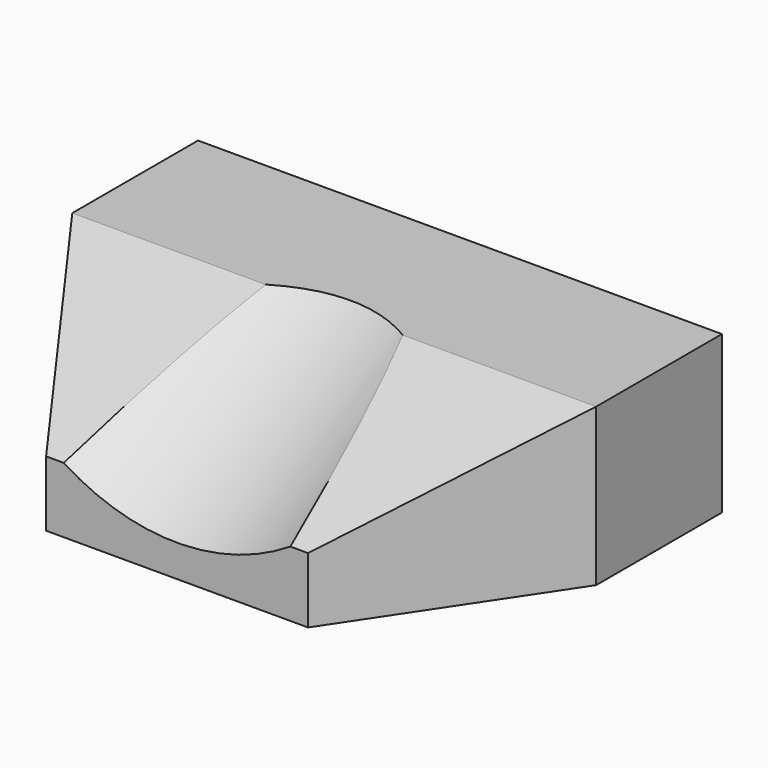
from build123d import *

# Parameters (mm, degrees)
CYLINDER_R               = 18
CYLINDER_DEPTH           = 30
CYLINDER_PLACEMENT_ANGLE = 120
PAD_DEPTH                = 12
POCKET_DEPTH             = 40.001
SKETCH002_W              = 2.5
SKETCH002_H              = 7.3
POCKET001_DEPTH          = 9


with BuildPart() as cilindro:
    # Cylinder → Cylinder (new body)
    with BuildSketch(Plane.XY):
        Circle(CYLINDER_R)
    extrude(amount=CYLINDER_DEPTH)


with BuildPart() as cilindro_1:
    # Cylinder placement: moved
    add(cilindro.part.moved(Location((0, -5, 29))).rotate(Axis((0, -5, 29), (1, 0, 0)), CYLINDER_PLACEMENT_ANGLE))


with BuildPart() as cut:
    # Sketch → Pad (new body)
    with BuildSketch(Plane.XY):
        Polygon((-20, 12), (20, 12), (20, 0), (10, -15), (-10, -15), (-20, 0), align=None)
    extrude(amount=PAD_DEPTH)

    # Sketch001 (on Face6 of Pad) → Pocket (cut, through all)
    with BuildSketch(Plane(origin=(-20, 0, 0), x_dir=(0, -1, 0), z_dir=(-1, 0, 0))):
        Polygon((0, 12), (15, 5), (15, 12), align=None)
    extrude(amount=-POCKET_DEPTH, mode=Mode.SUBTRACT)

    # Sketch002 (on Face1 of Pocket) → Pocket001 (cut)
    with BuildSketch(Plane(origin=(0, 12, 0), x_dir=(-1, 0, 0), z_dir=(0, 1, 0))):
        with Locations((-14.5, 6)):
            Rectangle(SKETCH002_W, SKETCH002_H)
    pocket001 = extrude(amount=-POCKET001_DEPTH, mode=Mode.SUBTRACT)

    # Mirrored: Pocket001 across Sketch002 V_Axis
    add(pocket001.mirror(Plane(origin=(0, 12, 0), x_dir=(0, 1, 0), z_dir=(-1, 0, 0))), mode=Mode.SUBTRACT)

    # Cut: cut Cilindro
    add(cilindro_1.part, mode=Mode.SUBTRACT)


solid = cut.part
